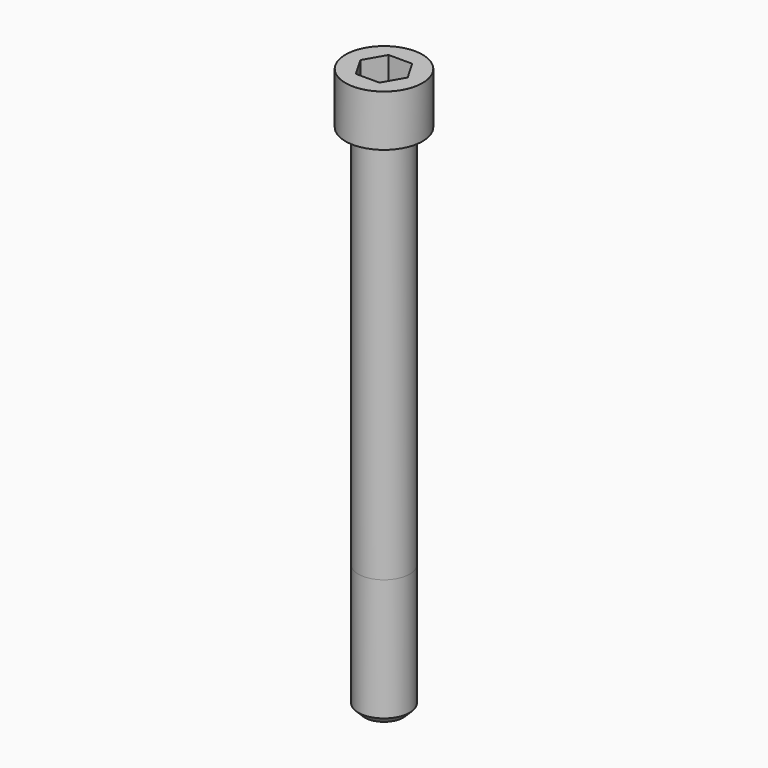
from build123d import *

# Parameters (mm, degrees)
POCKET_DEPTH = 19.15


with BuildPart() as part:
    # Sketch → Revolve (revolve)
    with BuildSketch(Plane.YZ):
        with BuildLine():
            Line((11.999, 0), (18, 0))
            Line((18, 0), (18, 23.97229))
            ThreePointArc((18, 23.97229), (17.991884, 23.991884), (17.97229, 24))
            Line((17.97229, 24), (0, 24))
            Line((0, -240), (0, 24))
            Line((9, -240), (0, -240))
            Line((12, -237), (9, -240))
            Line((12, -180), (12, -237))
            Line((11.999, 0), (12, -180))
        make_face()
    revolve(axis=Axis((0, 0, 0), (0, 0, 1)))

    # Sketch001 → Pocket (cut)
    with BuildSketch(Plane.XY.offset(24)):
        Polygon((11.056258, 0), (5.528129, 9.575), (-5.528129, 9.575), (-11.056258, 0), (-5.528129, -9.575), (5.528129, -9.575), align=None)
    extrude(amount=-POCKET_DEPTH, mode=Mode.SUBTRACT)


solid = part.part
